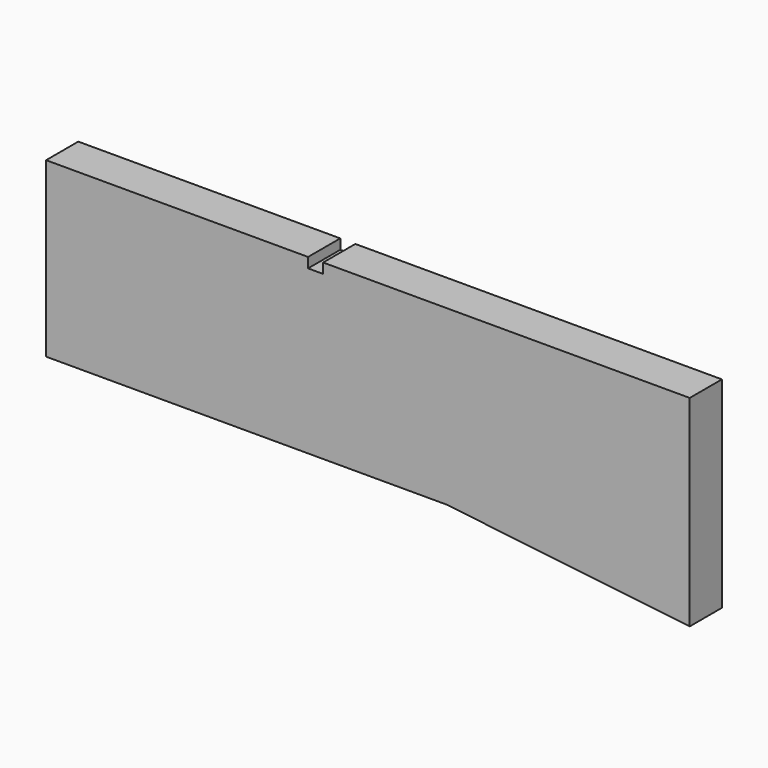
from build123d import *

# Parameters (mm, degrees)
F0_W     = 3200
F0_H     = 860
F1_DEPTH = 200
F3_DEPTH = 200
F4_W     = 75
F4_H     = 50
F5_DEPTH = 200.001


with BuildPart() as f1:
    # F0 (on Front) → F1 (new body)
    with BuildSketch(Plane.XZ):
        with Locations((-1600, 430)):
            Rectangle(F0_W, F0_H)
    extrude(amount=F1_DEPTH)

    # F2 (on Front) → F3 (join, through all)
    with BuildSketch(Plane.XZ):
        Polygon((0, -140), (0, 0), (-1210, 0), align=None)
    extrude(amount=F3_DEPTH)

    # F4 (on Front) → F5 (cut, through all)
    with BuildSketch(Plane.XZ):
        with Locations((-1860, 835)):
            Rectangle(F4_W, F4_H)
    extrude(amount=F5_DEPTH, mode=Mode.SUBTRACT)


solid = f1.part
